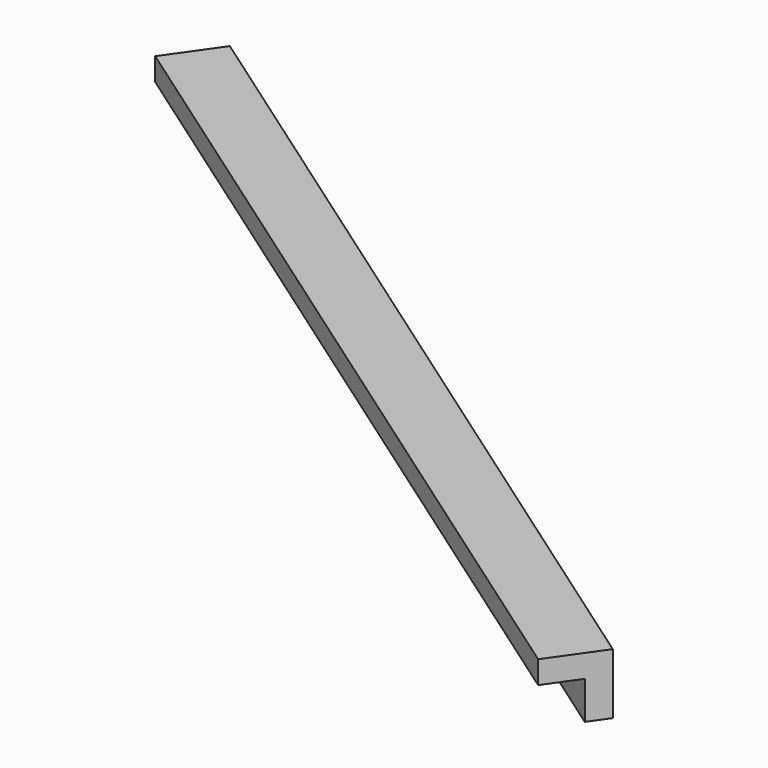
from build123d import *

# Parameters (mm, degrees)
BOX125_W               = 0.8
BOX125_H               = 14
BOX125_DEPTH           = 0.8
BOX126_W               = 0.8
BOX126_H               = 14
BOX126_DEPTH           = 0.8
CUT066_PLACEMENT_ANGLE = 55


with BuildPart() as cubo125:
    # Box125 → Box125 (new body)
    with BuildSketch(Plane.XY):
        with Locations((0.4, 7)):
            Rectangle(BOX125_W, BOX125_H)
    extrude(amount=BOX125_DEPTH)


with BuildPart() as obj1:
    # Box126 → Box126 (new body)
    with BuildSketch(Plane(origin=(0.3, 0, 0.3), x_dir=(1, 0, 0), z_dir=(0, 0, 1))):
        with Locations((0.4, 7)):
            Rectangle(BOX126_W, BOX126_H)
    extrude(amount=BOX126_DEPTH)

    # Cut066: cut Cubo125
    add(cubo125.part, mode=Mode.SUBTRACT)


with BuildPart() as obj1_1:
    # Cut066 placement: moved
    add(obj1.part.moved(Location((-181.4, 124.4, -1.45))).rotate(Axis((-181.4, 124.4, -1.45), (0, 0, 1)), CUT066_PLACEMENT_ANGLE))


solid = obj1_1.part
